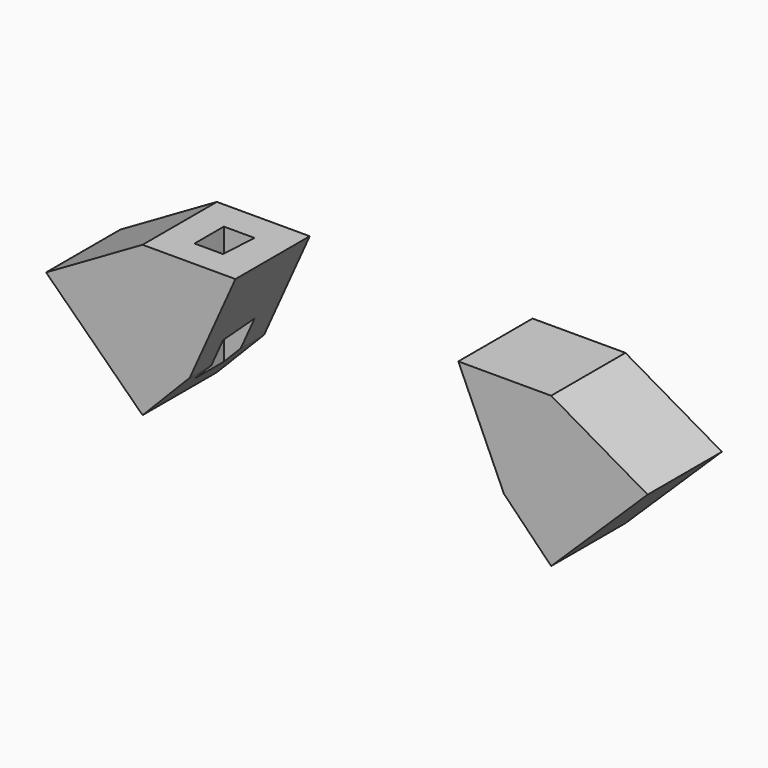
from build123d import *

# Parameters (mm, degrees)
F1_DEPTH = 127
F4_DEPTH = 205.1801337074


with BuildPart() as f1:
    # F0 (on Front) → F1 (new body)
    with BuildSketch(Plane.XZ):
        Polygon((-214.7759297475, 0), (-152.4, 139.050362776), (-279.4, 139.050362776), (-411.3822715367, 62.850362776), (-279.4, -66.1287709315), align=None)
    extrude(amount=F1_DEPTH)


with BuildPart() as f3_1:
    # F3: instance of F1
    add(f1.part.mirror(Plane.YZ))


with BuildPart() as f1_1:
    add(f1.part)

    # F2 (on face) → F4 (cut, through all)
    with BuildSketch(Plane.XY.offset(139.050362776)):
        Polygon((-198.8979130983, -90.0793522596), (-195.9102451801, -39.9265550077), (-237.9128336906, -39.9265550077), (-237.9128336906, -90.0793522596), align=None)
    extrude(amount=-F4_DEPTH, mode=Mode.SUBTRACT)


solid = Compound([f3_1.part, f1_1.part])
